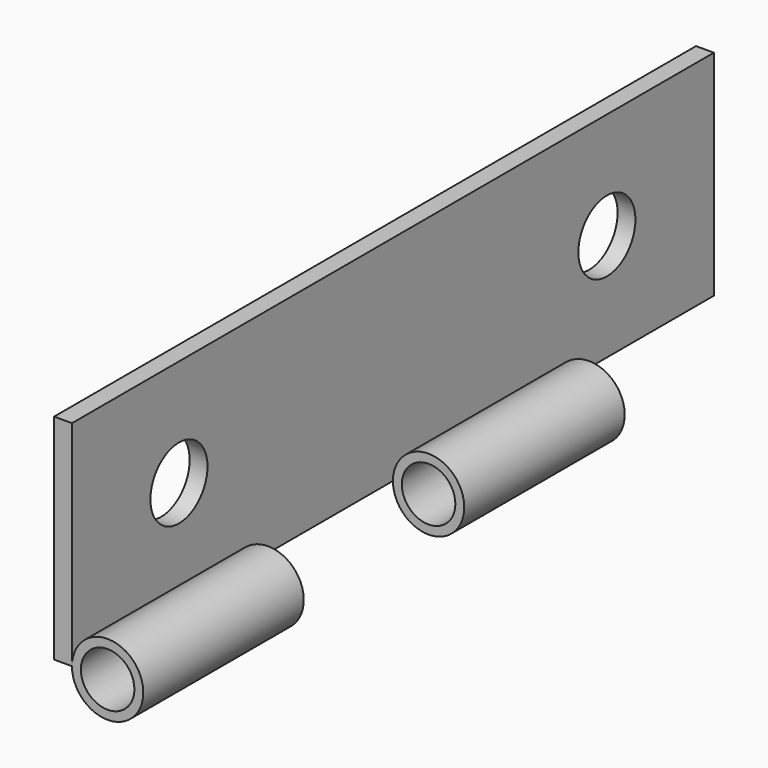
from build123d import *

# Parameters (mm, degrees)
SKETCH_W            = 45
SKETCH_H            = 12
SKETCH_R            = 2
PAD_DEPTH           = 1
SKETCH001_R         = 2
SKETCH001_R_2       = 1.5
PAD001_DEPTH        = 11.25
LINEARPATTERN_COUNT = 2
LINEARPATTERN_PITCH = 22.5


with BuildPart() as part:
    # Sketch → Pad (new body)
    with BuildSketch(Plane.YZ):
        with Locations((172.5, 6)):
            Rectangle(SKETCH_W, SKETCH_H)
        with Locations((157.5, 6)):
            Circle(SKETCH_R, mode=Mode.SUBTRACT)
        with Locations((187.5, 6)):
            Circle(SKETCH_R, mode=Mode.SUBTRACT)
    extrude(amount=PAD_DEPTH)

    # Sketch001 (on Face4 of Pad) → Pad001 (join)
    with BuildSketch(Plane(origin=(0, 150, 0), x_dir=(0, 0, -1), z_dir=(0, -1, 0))):
        with Locations((0, 3)):
            Circle(SKETCH001_R)
        with Locations((0, 3)):
            Circle(SKETCH001_R_2, mode=Mode.SUBTRACT)
    pad001 = extrude(amount=-PAD001_DEPTH)

    # LinearPattern: Pad001 ×2
    with Locations(*[(0, i * LINEARPATTERN_PITCH, 0) for i in range(1, LINEARPATTERN_COUNT)]):
        add(pad001)


solid = part.part
